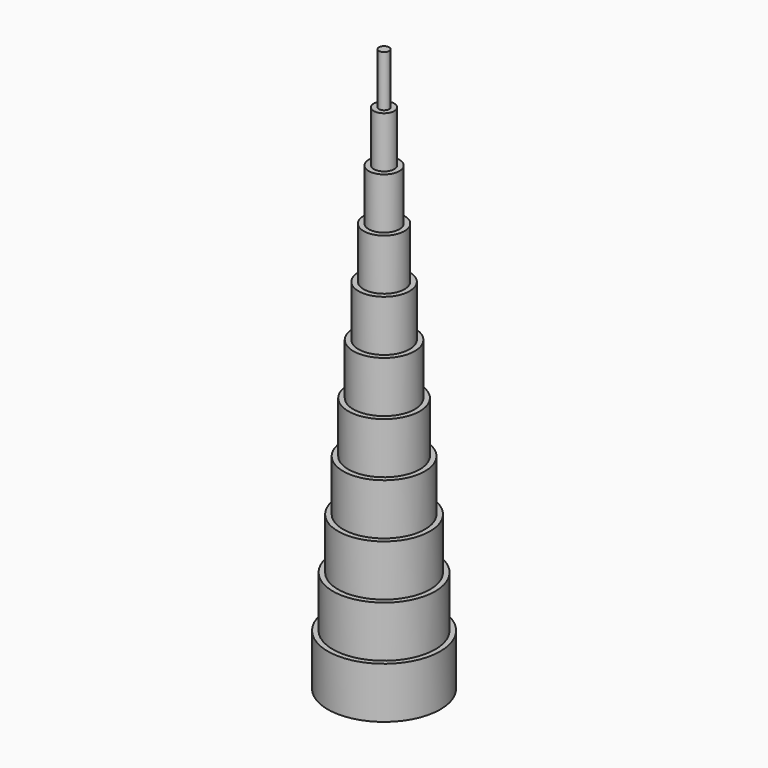
from build123d import *

# Parameters (mm, degrees)
F0_R      = 13.97
F1_DEPTH  = 12.7
F2_R      = 12.7
F3_DEPTH  = 12.7
F4_R      = 11.43
F5_DEPTH  = 12.7
F6_R      = 10.16
F7_DEPTH  = 12.7
F8_R      = 8.89
F9_DEPTH  = 12.7
F10_R     = 7.62
F11_DEPTH = 12.7
F12_R     = 6.35
F13_DEPTH = 12.7
F14_R     = 5.08
F15_DEPTH = 12.7
F16_R     = 3.81
F17_DEPTH = 12.7
F18_R     = 2.54
F19_DEPTH = 12.7
F20_R     = 1.274309
F21_DEPTH = 12.7


with BuildPart() as f1:
    # F0 (on Top) → F1 (new body)
    with BuildSketch(Plane.XY):
        Circle(F0_R)
    extrude(amount=F1_DEPTH)

    # F2 (on face) → F3 (join)
    with BuildSketch(Plane.XY.offset(12.7)):
        Circle(F2_R)
    extrude(amount=F3_DEPTH)

    # F4 (on face) → F5 (join)
    with BuildSketch(Plane.XY.offset(25.4)):
        Circle(F4_R)
    extrude(amount=F5_DEPTH)

    # F6 (on face) → F7 (join)
    with BuildSketch(Plane.XY.offset(38.1)):
        Circle(F6_R)
    extrude(amount=F7_DEPTH)

    # F8 (on face) → F9 (join)
    with BuildSketch(Plane.XY.offset(50.8)):
        Circle(F8_R)
    extrude(amount=F9_DEPTH)

    # F10 (on face) → F11 (join)
    with BuildSketch(Plane.XY.offset(63.5)):
        Circle(F10_R)
    extrude(amount=F11_DEPTH)

    # F12 (on face) → F13 (join)
    with BuildSketch(Plane.XY.offset(76.2)):
        Circle(F12_R)
    extrude(amount=F13_DEPTH)

    # F14 (on face) → F15 (join)
    with BuildSketch(Plane.XY.offset(88.9)):
        Circle(F14_R)
    extrude(amount=F15_DEPTH)

    # F16 (on face) → F17 (join)
    with BuildSketch(Plane.XY.offset(101.6)):
        Circle(F16_R)
    extrude(amount=F17_DEPTH)

    # F18 (on face) → F19 (join)
    with BuildSketch(Plane.XY.offset(114.3)):
        Circle(F18_R)
    extrude(amount=F19_DEPTH)

    # F20 (on face) → F21 (join)
    with BuildSketch(Plane.XY.offset(127)):
        Circle(F20_R)
    extrude(amount=F21_DEPTH)


solid = f1.part
